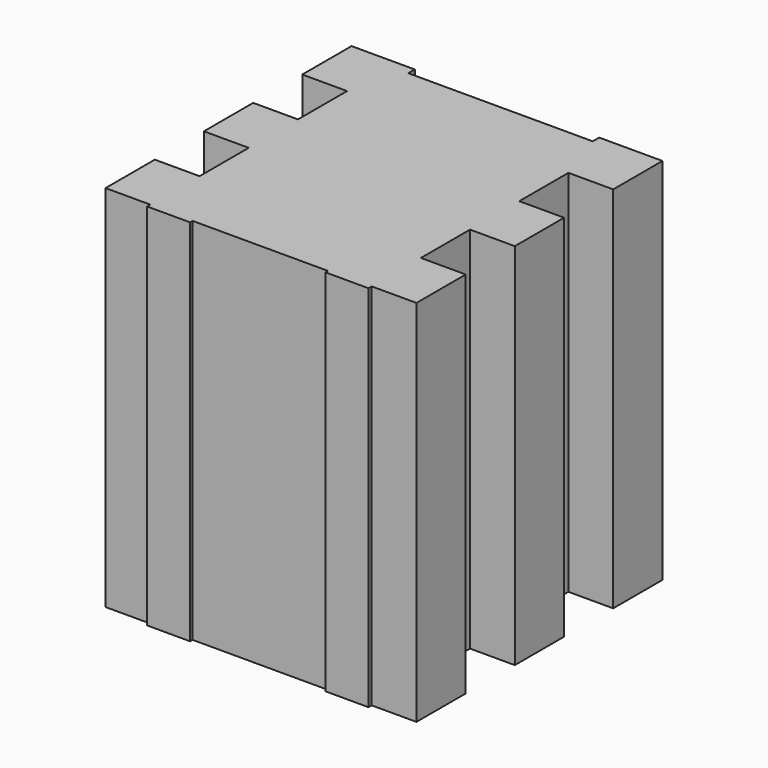
from build123d import *

# Parameters (mm, degrees)
DWIRE022_W       = 9.039794
DWIRE022_H       = 6.083538
EXTRUDE025_DEPTH = 6
DWIRE007_W       = 1.028705
DWIRE007_H       = 1.001781
EXTRUDE007_DEPTH = 9
ARRAY001_Y_COUNT = 20
ARRAY001_Y_PITCH = 2
DWIRE016_W       = 0.7
DWIRE016_H       = 38.839707
EXTRUDE019_DEPTH = 9
DWIRE021_W       = 3.095468
DWIRE021_H       = 4.884044
EXTRUDE024_DEPTH = 6


with BuildPart() as obj1:
    # DWire022 → Extrude025 (new body)
    with BuildSketch(Plane.XY):
        with Locations((-2.105889, 36.976721)):
            Rectangle(DWIRE022_W, DWIRE022_H)
    extrude(amount=EXTRUDE025_DEPTH)


with BuildPart() as obj1_1:
    # Extrude025 placement: moved
    add(obj1.part.moved(Location((0, 0, 6))))


with BuildPart() as obj2:
    # DWire007 → Extrude007 (new body)
    with BuildSketch(Plane.XY):
        with Locations((0.514352, 0.500891)):
            Rectangle(DWIRE007_W, DWIRE007_H)
    extrude(amount=EXTRUDE007_DEPTH)


with BuildPart() as obj2_1:
    # Extrude007 placement: moved
    add(obj2.part.moved(Location((0, 0, 6))))

    # Array001 Y: obj2 ×20


with BuildPart() as obj2_2:
    add(obj2_1.part)
    with Locations(*[(0, i * ARRAY001_Y_PITCH, 0) for i in range(1, ARRAY001_Y_COUNT)]):
        add(obj2_1.part)


with BuildPart() as obj3:
    # DWire016 → Extrude019 (new body)
    with BuildSketch(Plane.XY):
        with Locations((-0.05, 19.419853)):
            Rectangle(DWIRE016_W, DWIRE016_H)
    extrude(amount=EXTRUDE019_DEPTH)


with BuildPart() as obj3_1:
    # Extrude019 placement: moved
    add(obj3.part.moved(Location((0, 0, 6))))

    # Fusion002: union obj2
    add(obj2_2.part)


with BuildPart() as obj4:
    # Clone005 base: copy of obj3
    add(obj3_1.part)


with BuildPart() as part_mirroring004:
    # Part__Mirroring004: instance of obj4
    add(obj4.part.mirror(Plane(origin=(0, 0, 0), x_dir=(0, -1, 0), z_dir=(1, 0, 0))))


with BuildPart() as part_mirroring004_1:
    # Part__Mirroring004 placement: moved
    add(part_mirroring004.part.moved(Location((-3, 0, 0))))


with BuildPart() as extrude024:
    # DWire021 → Extrude024 (new body)
    with BuildSketch(Plane.XY):
        with Locations((-1.547734, 36.428072)):
            Rectangle(DWIRE021_W, DWIRE021_H)
    extrude(amount=EXTRUDE024_DEPTH)


with BuildPart() as extrude024_1:
    # Extrude024 placement: moved
    add(extrude024.part.moved(Location((0, 0, 6))))


with BuildPart() as obj5:
    # Fusion003 base: copy of obj3
    add(obj3_1.part)

    # Fusion003: union Part__Mirroring004, Extrude024
    add(part_mirroring004_1.part)
    add(extrude024_1.part)

    # Common: intersect obj1
    add(obj1_1.part, mode=Mode.INTERSECT)


solid = obj5.part
